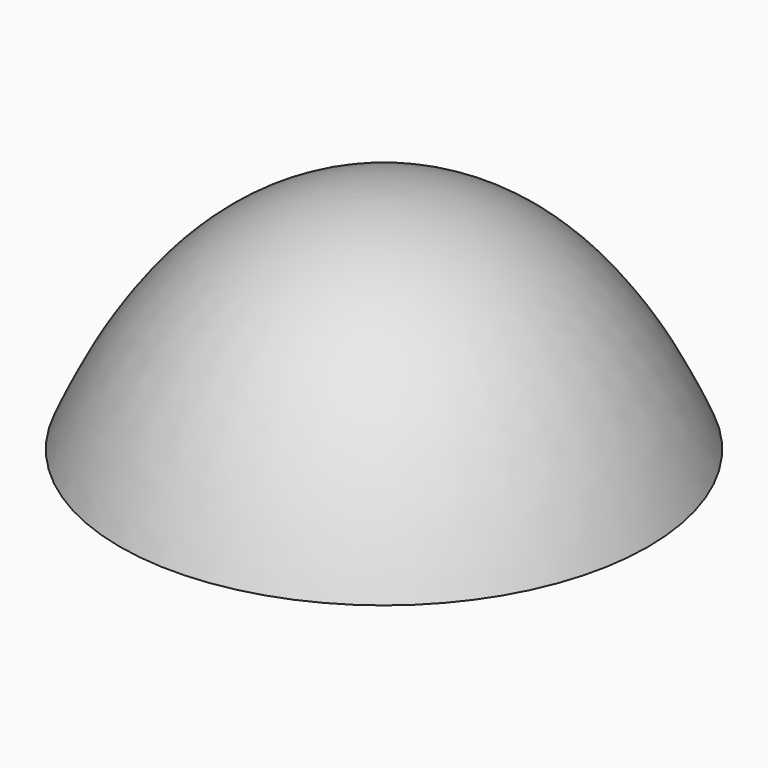
from build123d import *

# Parameters (mm, degrees)
F2_T = -4


with BuildPart() as f1:
    # F0 (on Front) → F1 (revolve)
    with BuildSketch(Plane.XZ):
        with BuildLine():
            Line((-26.6321219052, 125.213977864), (-26.6321219052, 80.213977864))
            Line((-26.6321219052, 80.213977864), (26.7510838289, 80.213977864))
            add(Edge.make_bspline(
                [(-26.6321219052, 125.213977864), (-1.4436189036, 125.213977864), (15.4730172825, 107.0259550185), (26.7510838289, 80.213977864)],
                knots=[0, 0, 0, 0, 82.4199955228, 82.4199955228, 82.4199955228, 82.4199955228], degree=3))
        make_face()
    revolve(axis=Axis((-26.6321219052, 0, 102.713977864), (0, 0, 1)))

    # F2
    f2_openings = [f1.faces().sort_by_distance(p)[0] for p in [
        (-26.632122, 0, 80.213978),
    ]]
    offset(amount=F2_T, openings=f2_openings)


solid = f1.part
